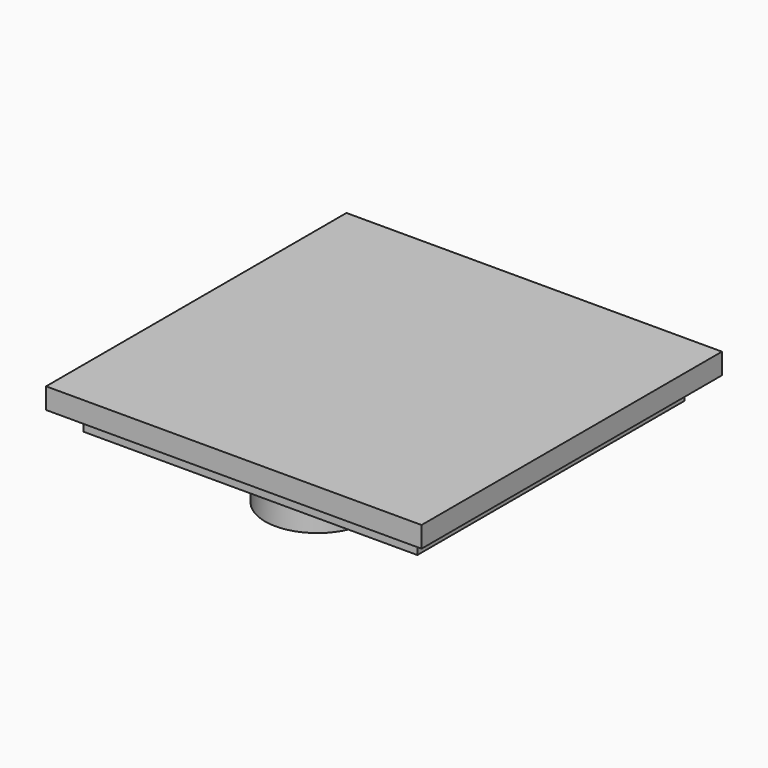
from build123d import *

# Parameters (mm, degrees)
F0_W     = 18
F0_H     = 18
F0_W_2   = 16
F0_H_2   = 16
F0_R     = 2.5
F1_DEPTH = 2
F2_DEPTH = 1
F3_DEPTH = 1
F4_DEPTH = 2


with BuildPart() as f1:
    # F0 (on Top) → F1 (new body)
    with BuildSketch(Plane.XY):
        Rectangle(F0_W, F0_H)
        Rectangle(F0_W_2, F0_H_2, mode=Mode.SUBTRACT)
        Rectangle(F0_W_2, F0_H_2)
        with Locations((0, -4)):
            Circle(F0_R, mode=Mode.SUBTRACT)
        with Locations((0, 4)):
            Circle(F0_R, mode=Mode.SUBTRACT)
        with Locations((0, 4)):
            Circle(F0_R)
        with Locations((0, -4)):
            Circle(F0_R)
    extrude(amount=F1_DEPTH)

    # F0 (on Top) → F2 (cut)
    with BuildSketch(Plane.XY):
        Rectangle(F0_W, F0_H)
        Rectangle(F0_W_2, F0_H_2, mode=Mode.SUBTRACT)
    extrude(amount=F2_DEPTH, mode=Mode.SUBTRACT)

    # F0 (on Top) → F3 (cut)
    with BuildSketch(Plane.XY):
        with Locations((0, -4)):
            Circle(F0_R)
        with Locations((0, 4)):
            Circle(F0_R)
    extrude(amount=F3_DEPTH, mode=Mode.SUBTRACT)


with BuildPart() as f4:
    # F0 (on Top) → F4 (new body)
    with BuildSketch(Plane.XY):
        with Locations((0, -4)):
            Circle(F0_R)
    extrude(amount=-F4_DEPTH)


with BuildPart() as f4b:
    # F0 (on Top) → F4, piece 2 (new body)
    with BuildSketch(Plane.XY):
        with Locations((0, 4)):
            Circle(F0_R)
    extrude(amount=-F4_DEPTH)


solid = Compound([f1.part, f4.part, f4b.part])
